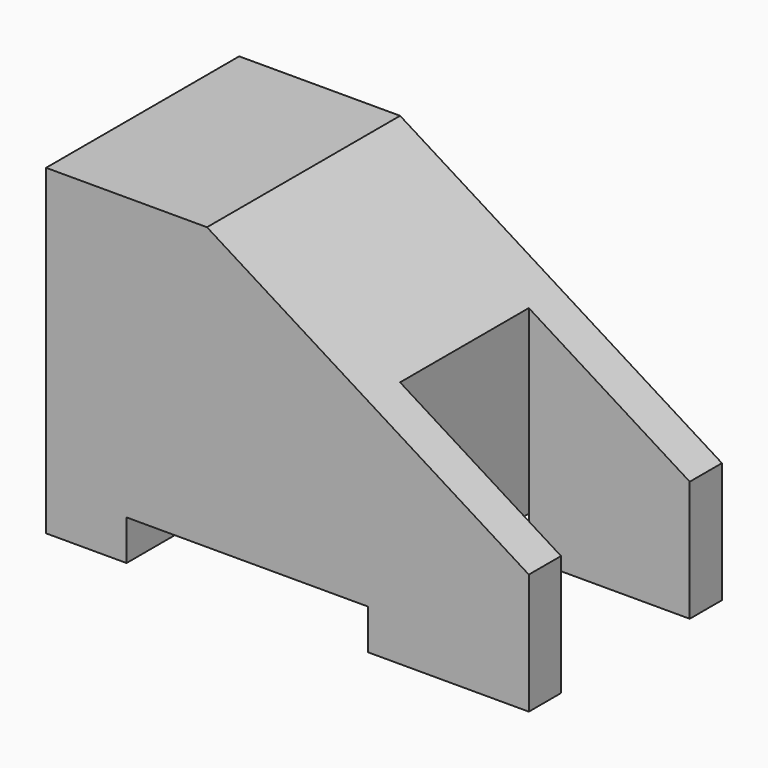
from build123d import *

# Parameters (mm, degrees)
F1_DEPTH = 15
F2_W     = 10
F2_H     = 10
F3_DEPTH = 25


with BuildPart() as f1:
    # F0 (on Front) → F1 (new body)
    with BuildSketch(Plane.XZ):
        Polygon((0, 20), (0, 0), (5, 0), (5, 2.5), (20, 2.5), (20, 0), (30, 0), (30, 7.5), (10, 20), align=None)
    extrude(amount=F1_DEPTH)

    # F2 (on face) → F3 (cut)
    with BuildSketch(Plane(origin=(0, 0, 0), x_dir=(1, 0, 0), z_dir=(0, 0, -1))):
        with Locations((25, 7.5)):
            Rectangle(F2_W, F2_H)
    extrude(amount=-F3_DEPTH, mode=Mode.SUBTRACT)


solid = f1.part
